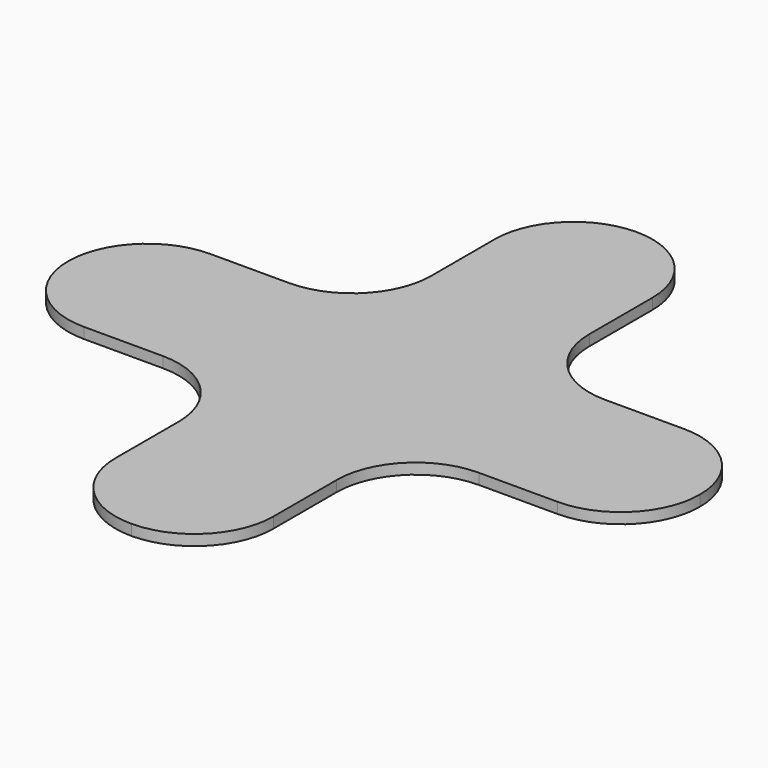
from build123d import *

# Parameters (mm, degrees)
F1_DEPTH = 0.4318


with BuildPart() as f1:
    # F0 (on Top) → F1 (new body)
    with BuildSketch(Plane.XY):
        with BuildLine():
            ThreePointArc((0, -12.7), (2.245064, -11.770064), (3.175, -9.525))
            Line((3.175, -9.525), (3.175, -6.35))
            ThreePointArc((3.175, -6.35), (4.104936, -4.104936), (6.35, -3.175))
            Line((6.35, -3.175), (9.525, -3.175))
            ThreePointArc((9.525, -3.175), (11.770064, -2.245064), (12.7, 0))
            ThreePointArc((12.7, 0), (11.770064, 2.245064), (9.525, 3.175))
            Line((9.525, 3.175), (6.35, 3.175))
            ThreePointArc((6.35, 3.175), (4.104936, 4.104936), (3.175, 6.35))
            Line((3.175, 6.35), (3.175, 9.525))
            ThreePointArc((3.175, 9.525), (2.245064, 11.770064), (0, 12.7))
            ThreePointArc((0, 12.7), (-2.245064, 11.770064), (-3.175, 9.525))
            Line((-3.175, 9.525), (-3.175, 6.35))
            ThreePointArc((-3.175, 6.35), (-4.104936, 4.104936), (-6.35, 3.175))
            Line((-6.35, 3.175), (-9.525, 3.175))
            ThreePointArc((-9.525, 3.175), (-11.770064, 2.245064), (-12.7, 0))
            ThreePointArc((-12.7, 0), (-11.770064, -2.245064), (-9.525, -3.175))
            Line((-9.525, -3.175), (-6.35, -3.175))
            ThreePointArc((-6.35, -3.175), (-4.104936, -4.104936), (-3.175, -6.35))
            Line((-3.175, -6.35), (-3.175, -9.525))
            ThreePointArc((-3.175, -9.525), (-2.245064, -11.770064), (0, -12.7))
        make_face()
    extrude(amount=F1_DEPTH)


solid = f1.part
